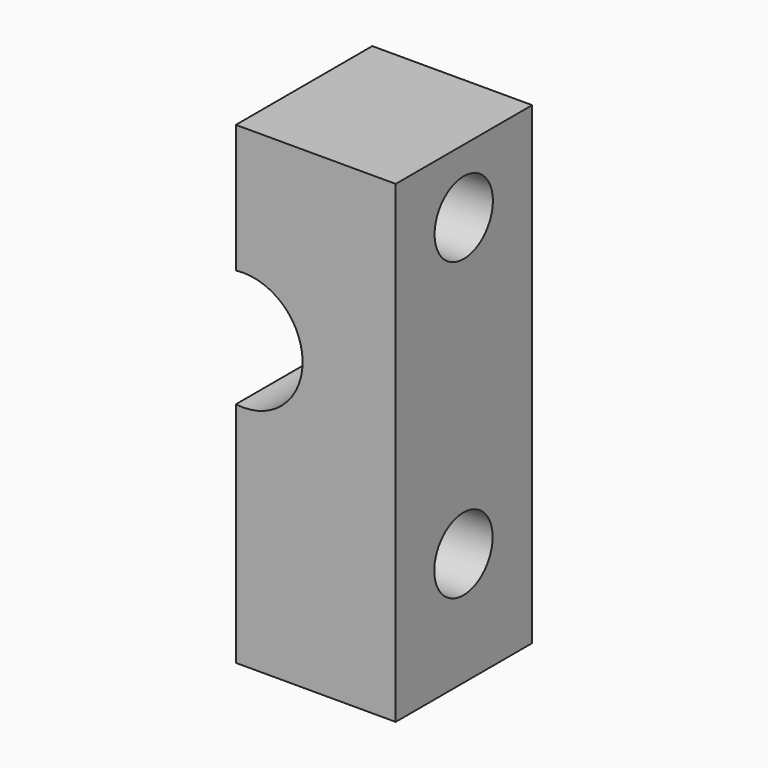
from build123d import *

# Parameters (mm, degrees)
SKETCH_W        = 11.699997
SKETCH_H        = 32.48951
PAD_DEPTH       = 10.966
SKETCH001_R     = 4.070736
POCKET_DEPTH    = 56
SKETCH002_R     = 1.75554
SKETCH002_R_2   = 1.74777
POCKET001_DEPTH = 71
SKETCH003_R     = 2.5
POCKET002_DEPTH = 5


with BuildPart() as part:
    # Sketch → Pad (new body)
    with BuildSketch(Plane.YZ.offset(-28.95)):
        with Locations((-5.855995, -66.44524)):
            Rectangle(SKETCH_W, SKETCH_H)
    extrude(amount=PAD_DEPTH)

    # Sketch001 (on Face1 of Pad) → Pocket (cut)
    with BuildSketch(Plane(origin=(0, -11.705994, 0), x_dir=(0, 0, -1), z_dir=(0, -1, 0))):
        with Locations((63.03607, -28.441665)):
            Circle(SKETCH001_R)
    extrude(amount=-POCKET_DEPTH, mode=Mode.SUBTRACT)

    # Sketch002 (on Face5 of Pocket) → Pocket001 (cut)
    with BuildSketch(Plane.YZ.offset(-17.984)):
        with Locations((-5.869027, -54.605738)):
            Circle(SKETCH002_R)
        with Locations((-5.877423, -74.910813)):
            Circle(SKETCH002_R_2)
    extrude(amount=-POCKET001_DEPTH, mode=Mode.SUBTRACT)

    # Sketch003 (on Face6 of Pocket001) → Pocket002 (cut)
    with BuildSketch(Plane.YZ.offset(-17.984)):
        with Locations((-5.873042, -54.603773)):
            Circle(SKETCH003_R)
        with Locations((-5.897727, -74.902628)):
            Circle(SKETCH003_R)
    extrude(amount=-POCKET002_DEPTH, mode=Mode.SUBTRACT)


with BuildPart() as part_1:
    # Body placement: moved
    add(part.part.moved(Location((0, 162, 0))))


solid = part_1.part
